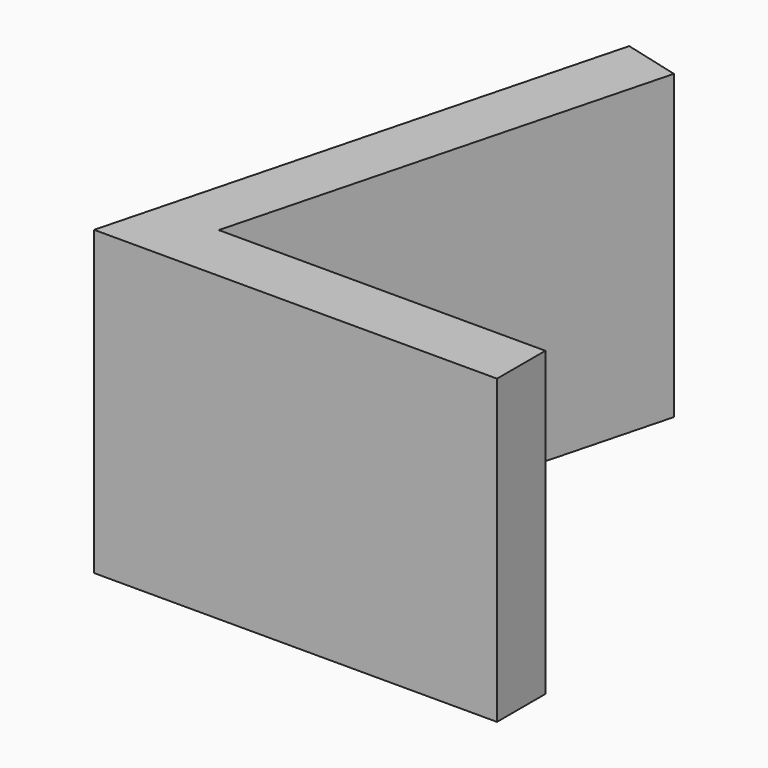
from build123d import *

# Parameters (mm, degrees)
PAD_DEPTH = 15


with BuildPart() as part:
    # Sketch → Pad (new body)
    with BuildSketch(Plane.XY):
        Polygon((20, 0), (0, 0), (6.563017, 25), (9.369596, 24.263215), (3.787562, 3), (20, 3), align=None)
    extrude(amount=PAD_DEPTH)


solid = part.part
